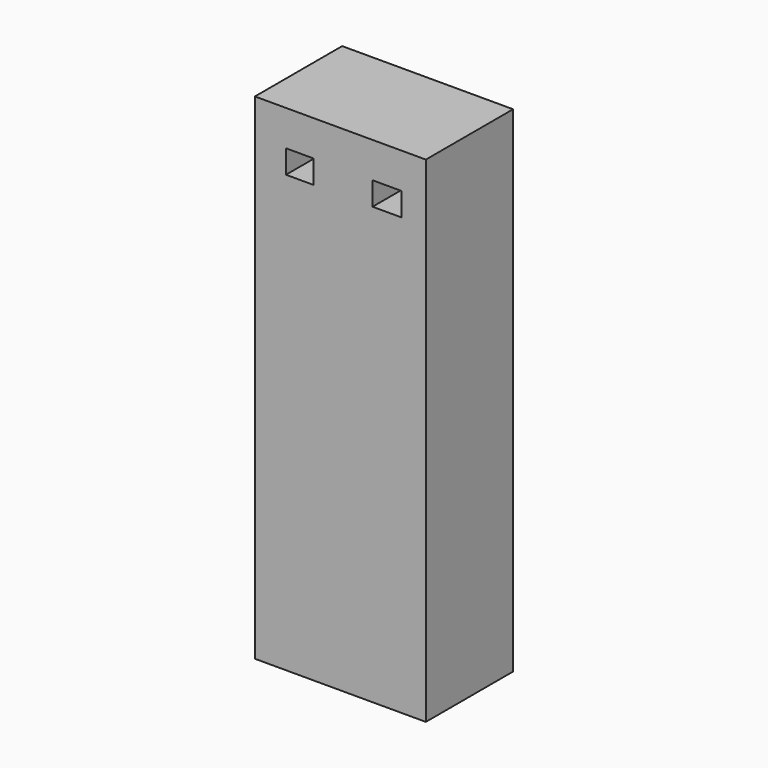
from build123d import *

# Parameters (mm, degrees)
F0_W     = 39.811114
F0_H     = 115.297124
F0_W_2   = 6.462844
F0_H_2   = 5.428789
F0_W_3   = 6.721356
F1_DEPTH = 25.4


with BuildPart() as f1:
    # F0 (on Front) → F1 (new body)
    with BuildSketch(Plane.XZ):
        with Locations((-3.102166, -14.088996)):
            Rectangle(F0_W, F0_H)
        with Locations((-12.537916, 32.572733)):
            Rectangle(F0_W_2, F0_H_2, mode=Mode.SUBTRACT)
        with Locations((7.755412, 32.572733)):
            Rectangle(F0_W_3, F0_H_2, mode=Mode.SUBTRACT)
    extrude(amount=F1_DEPTH)


solid = f1.part
